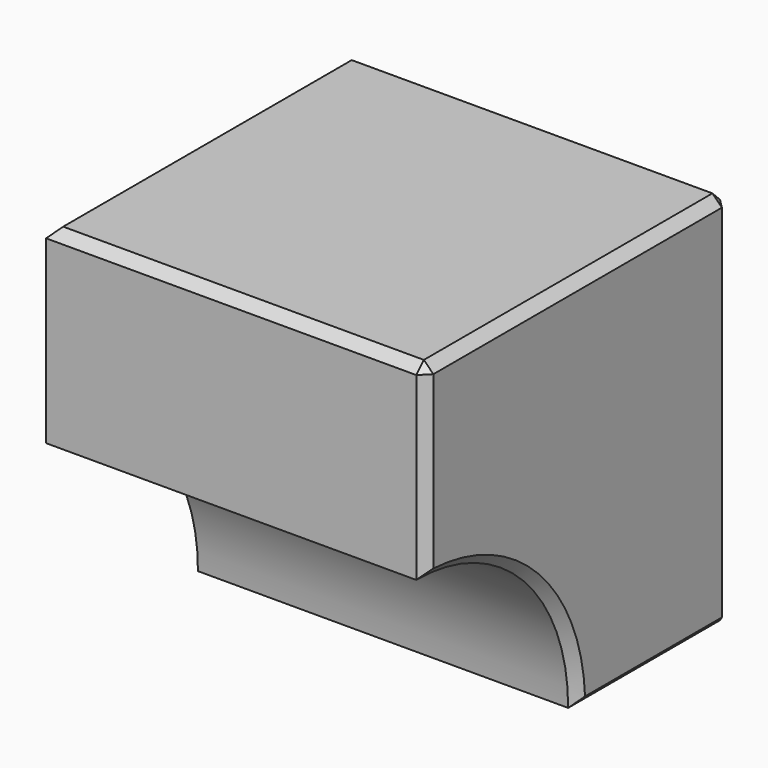
from build123d import *

# Parameters (mm, degrees)
F0_W     = 203.2
F0_H     = 203.2
F1_DEPTH = 101.6
F2_R     = 101.6
F3_DEPTH = 203.201
F4_SIZE  = 5.08


with BuildPart() as f1:
    # F0 (on Right) → F1 (new body, symmetric)
    with BuildSketch(Plane.YZ):
        Rectangle(F0_W, F0_H)
    extrude(amount=F1_DEPTH, both=True)

    # F2 (on face) → F3 (cut, through all)
    with BuildSketch(Plane.YZ.offset(101.6)):
        with Locations((-101.6, -101.6)):
            Circle(F2_R)
    extrude(amount=-F3_DEPTH, mode=Mode.SUBTRACT)

    # F4
    f4_edges = [f1.edges().sort_by_distance(p)[0] for p in [
        (101.6, 0, 101.6),
        (101.6, 101.6, 0),
        (101.6, 50.8, -101.6),
        (101.6, -29.757951, -29.757951),
        (101.6, -101.6, 50.8),
        (-101.6, 0, 101.6),
        (0, -101.6, 101.6),
        (0, 101.6, 101.6),
    ]]
    chamfer(f4_edges, length=F4_SIZE)


solid = f1.part
